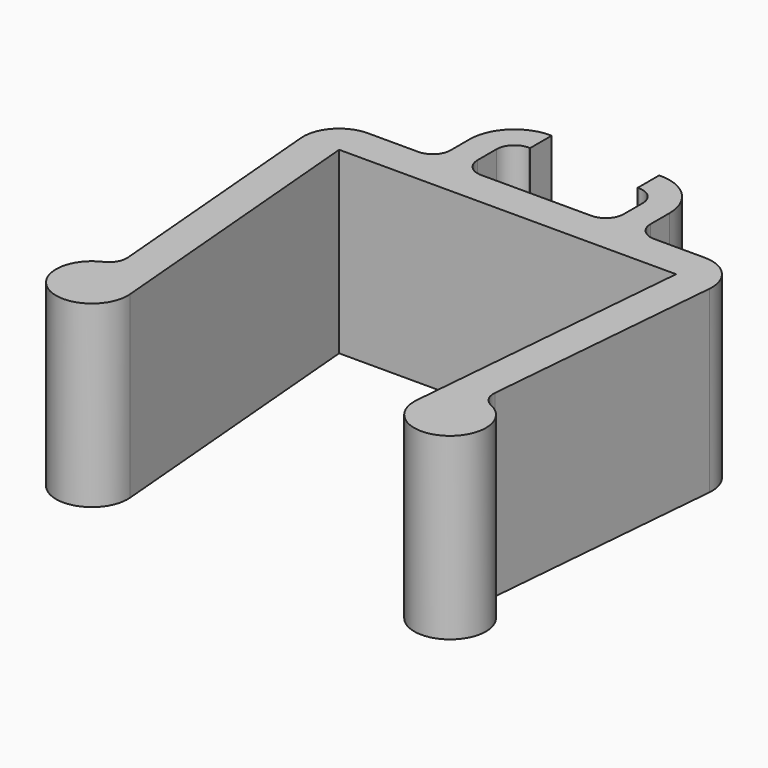
from build123d import *

# Parameters (mm, degrees)
F1_DEPTH = 10


with BuildPart() as f1:
    # F0 (on Top) → F1 (new body)
    with BuildSketch(Plane.XY):
        with BuildLine():
            Line((0, 7.189543), (9.4, 7.189543))
            Line((9.4, 7.189543), (8, -9.140576))
            ThreePointArc((8, -9.140576), (11.003684, -11.037069), (10.817986, -7.489631))
            ThreePointArc((10.817986, -7.489631), (10.367805, -7.084237), (10.234289, -6.493322))
            Line((10.234289, -6.493322), (11.39269, 7.018707))
            ThreePointArc((11.39269, 7.018707), (10.873376, 8.542009), (9.4, 9.189543))
            Line((9.4, 9.189543), (6.577637, 9.189543))
            ThreePointArc((6.577637, 9.189543), (5.87053, 9.482436), (5.577637, 10.189543))
            Line((5.577637, 10.189543), (5.577637, 11.510041))
            ThreePointArc((5.577637, 11.510041), (4.845404, 13.277808), (3.077637, 14.010041))
            Line((3.077637, 14.010041), (3, 14.010041))
            Line((3, 14.010041), (3, 12.510041))
            Line((3, 12.510041), (3.077637, 12.510041))
            ThreePointArc((3.077637, 12.510041), (3.784744, 12.217147), (4.077637, 11.510041))
            Line((4.077637, 11.510041), (4.077637, 10.189543))
            ThreePointArc((4.077637, 10.189543), (3.784744, 9.482436), (3.077637, 9.189543))
            Line((3.077637, 9.189543), (0, 9.189543))
            Line((0, 9.189543), (-3.077637, 9.189543))
            ThreePointArc((-3.077637, 9.189543), (-3.784744, 9.482436), (-4.077637, 10.189543))
            Line((-4.077637, 10.189543), (-4.077637, 11.510041))
            ThreePointArc((-4.077637, 11.510041), (-3.784744, 12.217147), (-3.077637, 12.510041))
            Line((-3.077637, 12.510041), (-3, 12.510041))
            Line((-3, 12.510041), (-3, 14.010041))
            Line((-3, 14.010041), (-3.077637, 14.010041))
            ThreePointArc((-3.077637, 14.010041), (-4.845404, 13.277808), (-5.577637, 11.510041))
            Line((-5.577637, 11.510041), (-5.577637, 10.189543))
            ThreePointArc((-5.577637, 10.189543), (-5.87053, 9.482436), (-6.577637, 9.189543))
            Line((-6.577637, 9.189543), (-9.4, 9.189543))
            ThreePointArc((-9.4, 9.189543), (-10.873376, 8.542009), (-11.39269, 7.018707))
            Line((-11.39269, 7.018707), (-10.234289, -6.493322))
            ThreePointArc((-10.234289, -6.493322), (-10.367805, -7.084237), (-10.817986, -7.489631))
            ThreePointArc((-10.817986, -7.489631), (-11.003684, -11.037069), (-8, -9.140576))
            Line((-8, -9.140576), (-9.4, 7.189543))
            Line((-9.4, 7.189543), (0, 7.189543))
        make_face()
    extrude(amount=F1_DEPTH)


solid = f1.part
